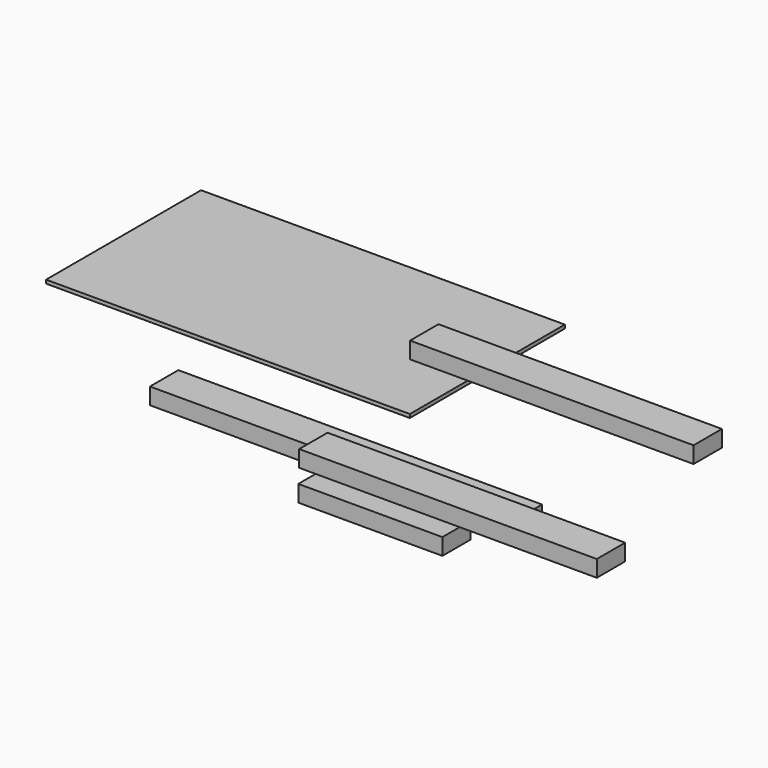
from build123d import *

# Parameters (mm, degrees)
F0_W     = 95.25
F0_H     = 44.45
F1_DEPTH = 488.95
F2_W     = 95.25
F2_H     = 44.45
F3_DEPTH = 762
F4_W     = 95.25
F4_H     = 44.45
F5_DEPTH = 800.1
F6_W     = 95.25
F6_H     = 44.45
F7_DEPTH = 387.35
F8_W     = 977.9
F8_H     = 520.7
F9_DEPTH = 9.525


with BuildPart() as f1:
    # F0 (on Right) → F1 (new body, symmetric)
    with BuildSketch(Plane.YZ):
        Rectangle(F0_W, F0_H)
    extrude(amount=F1_DEPTH, both=True)


with BuildPart() as f3:
    # F2 (on Right) → F3 (new body)
    with BuildSketch(Plane.YZ):
        with Locations((262.991309, 160.748305)):
            Rectangle(F2_W, F2_H)
    extrude(amount=F3_DEPTH)


with BuildPart() as f5:
    # F4 (on Right) → F5 (new body)
    with BuildSketch(Plane.YZ):
        with Locations((-109.776534, 55.535162)):
            Rectangle(F4_W, F4_H)
    extrude(amount=F5_DEPTH)


with BuildPart() as f7:
    # F6 (on Right) → F7 (new body)
    with BuildSketch(Plane.YZ):
        with Locations((-112.719905, -25.647794)):
            Rectangle(F6_W, F6_H)
    extrude(amount=F7_DEPTH)


with BuildPart() as f9:
    # F8 (on Top) → F9 (new body)
    with BuildSketch(Plane.XY):
        with Locations((-488.95, 474.829476)):
            Rectangle(F8_W, F8_H)
    extrude(amount=F9_DEPTH)


solid = Compound([f1.part, f3.part, f5.part, f7.part, f9.part])
